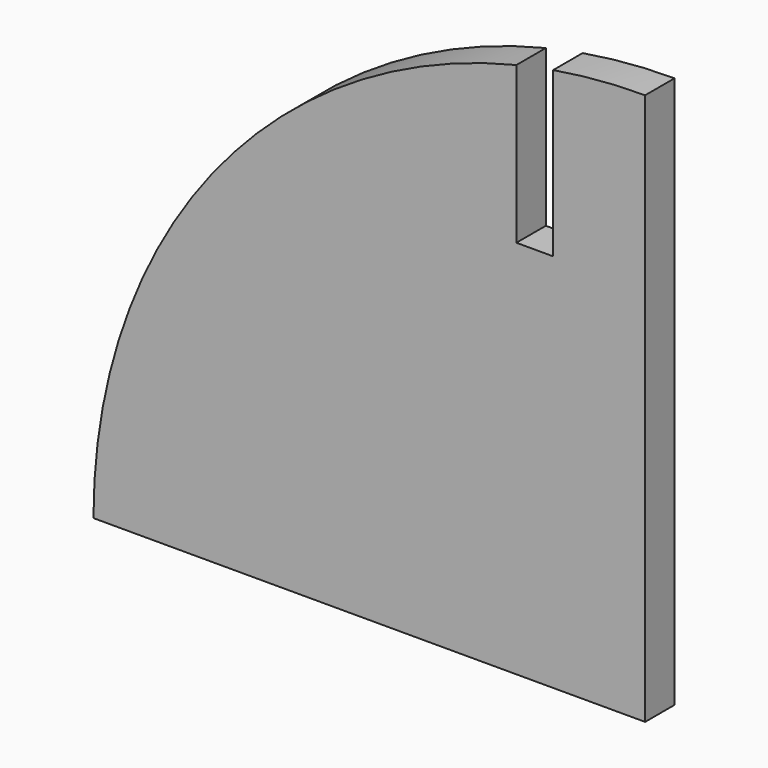
from build123d import *

# Parameters (mm, degrees)
F1_DEPTH = 2
F2_W     = 2
F2_H     = 31.447453
F3_DEPTH = 25


with BuildPart() as f1:
    # F0 (on Front) → F1 (new body)
    with BuildSketch(Plane.XZ):
        with BuildLine():
            ThreePointArc((0, 30), (-21.213203, 21.213203), (-30, 0))
            Line((-30, 0), (0, 0))
            Line((0, 0), (0, 30))
        make_face()
    extrude(amount=F1_DEPTH)

    # F2 (on Front) → F3 (cut)
    with BuildSketch(Plane.XZ):
        with Locations((-6, 36.386018)):
            Rectangle(F2_W, F2_H)
    extrude(amount=F3_DEPTH, mode=Mode.SUBTRACT)


solid = f1.part
